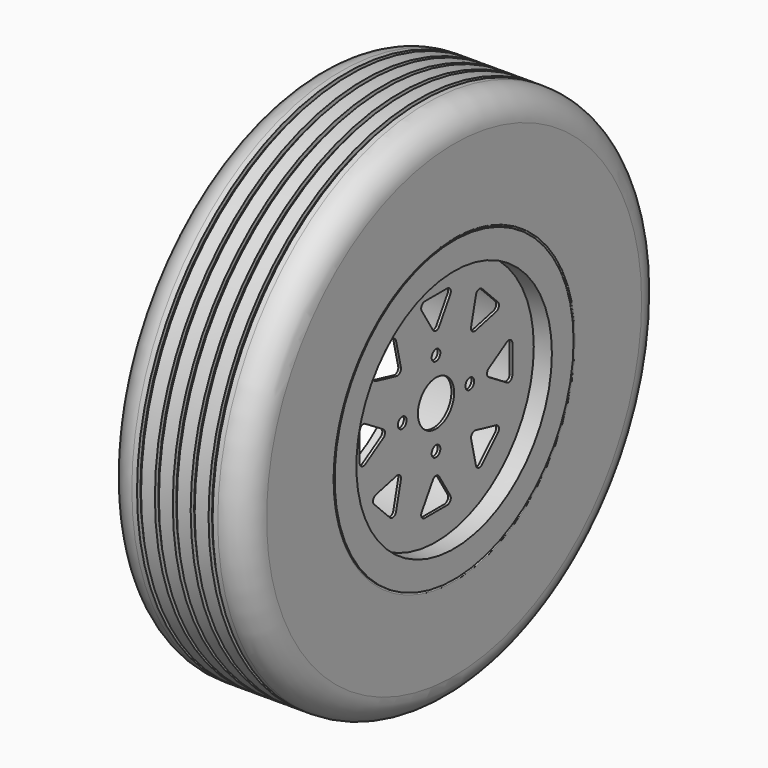
from build123d import *

# Parameters (mm, degrees)
F0_W     = 3
F0_H     = 135.1
F2_R     = 25
F2_R_2   = 6
F3_DEPTH = 135.001


with BuildPart() as f1:
    # F0 (on Top) → F1 (revolve)
    with BuildSketch(Plane.XY):
        Polygon((-133, 165.1), (-135, 165.1), (-135, 135.1), (-3, 135.1), (0, 135.1), (20, 135.1), (20, 165.1), (18, 165.1), (17, 165.1), (17, 138.1), (-132, 138.1), (-132, 165.1), align=None)
        with Locations((-1.5, 67.55)):
            Rectangle(F0_W, F0_H)
    revolve(axis=Axis((1.734227, 0, 0), (1, 0, 0)))

    # F2 (on face) → F3 (cut, through all)
    with BuildSketch(Plane.YZ):
        Circle(F2_R)
        with Locations((-46.697814, 0)):
            Circle(F2_R_2)
        with Locations((0, 46.697814)):
            Circle(F2_R_2)
        with Locations((46.697814, 0)):
            Circle(F2_R_2)
        with Locations((0, -46.697814)):
            Circle(F2_R_2)
        with BuildLine():
            ThreePointArc((-4.2516, 72.839968), (0, 70.471297), (4.2516, 72.839968))
            Line((4.2516, 72.839968), (19.726928, 97.844402))
            ThreePointArc((19.726928, 97.844402), (19.843202, 102.909181), (15.475327, 105.475731))
            Line((15.475327, 105.475731), (0, 105.475731))
            Line((0, 105.475731), (-15.475327, 105.475731))
            ThreePointArc((-15.475327, 105.475731), (-19.843202, 102.909181), (-19.726928, 97.844402))
            Line((-19.726928, 97.844402), (-4.2516, 72.839968))
        make_face()
        with BuildLine():
            ThreePointArc((63.639896, 85.525314), (58.736517, 86.799042), (55.237396, 83.135484))
            Line((55.237396, 83.135484), (48.4993, 54.511971))
            ThreePointArc((48.4993, 54.511971), (49.830732, 49.830732), (54.511971, 48.4993))
            Line((54.511971, 48.4993), (83.135484, 55.237396))
            ThreePointArc((83.135484, 55.237396), (86.799042, 58.736517), (85.525314, 63.639896))
            Line((85.525314, 63.639896), (74.582605, 74.582605))
            Line((74.582605, 74.582605), (63.639896, 85.525314))
        make_face()
        with BuildLine():
            ThreePointArc((105.475731, 15.475327), (102.909181, 19.843202), (97.844402, 19.726928))
            Line((97.844402, 19.726928), (72.839968, 4.2516))
            ThreePointArc((72.839968, 4.2516), (70.471297, 0), (72.839968, -4.2516))
            Line((72.839968, -4.2516), (97.844402, -19.726928))
            ThreePointArc((97.844402, -19.726928), (102.909181, -19.843202), (105.475731, -15.475327))
            Line((105.475731, -15.475327), (105.475731, 0))
            Line((105.475731, 0), (105.475731, 15.475327))
        make_face()
        with BuildLine():
            ThreePointArc((15.475327, -105.475731), (19.843202, -102.909181), (19.726928, -97.844402))
            Line((19.726928, -97.844402), (4.2516, -72.839968))
            ThreePointArc((4.2516, -72.839968), (0, -70.471297), (-4.2516, -72.839968))
            Line((-4.2516, -72.839968), (-19.726928, -97.844402))
            ThreePointArc((-19.726928, -97.844402), (-19.843202, -102.909181), (-15.475327, -105.475731))
            Line((-15.475327, -105.475731), (0, -105.475731))
            Line((0, -105.475731), (15.475327, -105.475731))
        make_face()
        with BuildLine():
            ThreePointArc((-63.639896, -85.525314), (-58.736517, -86.799042), (-55.237396, -83.135484))
            Line((-55.237396, -83.135484), (-48.4993, -54.511971))
            ThreePointArc((-48.4993, -54.511971), (-49.830732, -49.830732), (-54.511971, -48.4993))
            Line((-54.511971, -48.4993), (-83.135484, -55.237396))
            ThreePointArc((-83.135484, -55.237396), (-86.799042, -58.736517), (-85.525314, -63.639896))
            Line((-85.525314, -63.639896), (-74.582605, -74.582605))
            Line((-74.582605, -74.582605), (-63.639896, -85.525314))
        make_face()
        with BuildLine():
            ThreePointArc((-105.475731, -15.475327), (-102.909181, -19.843202), (-97.844402, -19.726928))
            Line((-97.844402, -19.726928), (-72.839968, -4.2516))
            ThreePointArc((-72.839968, -4.2516), (-70.471297, 0), (-72.839968, 4.2516))
            Line((-72.839968, 4.2516), (-97.844402, 19.726928))
            ThreePointArc((-97.844402, 19.726928), (-102.909181, 19.843202), (-105.475731, 15.475327))
            Line((-105.475731, 15.475327), (-105.475731, 0))
            Line((-105.475731, 0), (-105.475731, -15.475327))
        make_face()
        with BuildLine():
            ThreePointArc((-85.525314, 63.639896), (-86.799042, 58.736517), (-83.135484, 55.237396))
            Line((-83.135484, 55.237396), (-54.511971, 48.4993))
            ThreePointArc((-54.511971, 48.4993), (-49.830732, 49.830732), (-48.4993, 54.511971))
            Line((-48.4993, 54.511971), (-55.237396, 83.135484))
            ThreePointArc((-55.237396, 83.135484), (-58.736517, 86.799042), (-63.639896, 85.525314))
            Line((-63.639896, 85.525314), (-74.582605, 74.582605))
            Line((-74.582605, 74.582605), (-85.525314, 63.639896))
        make_face()
        with BuildLine():
            ThreePointArc((85.525314, -63.639896), (86.799042, -58.736517), (83.135484, -55.237396))
            Line((83.135484, -55.237396), (54.511971, -48.4993))
            ThreePointArc((54.511971, -48.4993), (49.830732, -49.830732), (48.4993, -54.511971))
            Line((48.4993, -54.511971), (55.237396, -83.135484))
            ThreePointArc((55.237396, -83.135484), (58.736517, -86.799042), (63.639896, -85.525314))
            Line((63.639896, -85.525314), (74.582605, -74.582605))
            Line((74.582605, -74.582605), (85.525314, -63.639896))
        make_face()
    extrude(amount=-F3_DEPTH, mode=Mode.SUBTRACT)


with BuildPart() as f4:
    # F0 (on Top) → F4 (revolve)
    with BuildSketch(Plane.XY):
        with BuildLine():
            ThreePointArc((-135, 167.1), (-134.414214, 165.685786), (-133, 165.1))
            Line((-133, 165.1), (-132, 165.1))
            Line((-132, 165.1), (-132, 138.1))
            Line((-132, 138.1), (17, 138.1))
            Line((17, 138.1), (17, 165.1))
            Line((17, 165.1), (18, 165.1))
            ThreePointArc((18, 165.1), (19.414214, 165.685786), (20, 167.1))
            Line((20, 167.1), (20, 259.1))
            ThreePointArc((20, 259.1), (11.213203, 280.313203), (-10, 289.1))
            Line((-10, 289.1), (-15.731056, 289.1))
            Line((-15.731056, 289.1), (-15.731056, 284.327713))
            Line((-15.731056, 284.327713), (-20.168041, 284.327713))
            Line((-20.168041, 284.327713), (-20.168041, 289.1))
            Line((-20.168041, 289.1), (-35.506282, 289.1))
            Line((-35.506282, 289.1), (-35.506282, 284.327713))
            Line((-35.506282, 284.327713), (-39.943266, 284.327713))
            Line((-39.943266, 284.327713), (-39.943266, 289.1))
            Line((-39.943266, 289.1), (-55.281508, 289.1))
            Line((-55.281508, 289.1), (-55.281508, 284.327713))
            Line((-55.281508, 284.327713), (-59.718492, 284.327713))
            Line((-59.718492, 284.327713), (-59.718492, 289.1))
            Line((-59.718492, 289.1), (-75.056734, 289.1))
            Line((-75.056734, 289.1), (-75.056734, 284.327713))
            Line((-75.056734, 284.327713), (-79.493718, 284.327713))
            Line((-79.493718, 284.327713), (-79.493718, 289.1))
            Line((-79.493718, 289.1), (-94.831959, 289.1))
            Line((-94.831959, 289.1), (-94.831959, 284.327713))
            Line((-94.831959, 284.327713), (-99.268944, 284.327713))
            Line((-99.268944, 284.327713), (-99.268944, 289.1))
            Line((-99.268944, 289.1), (-105, 289.1))
            ThreePointArc((-105, 289.1), (-126.213203, 280.313203), (-135, 259.1))
            Line((-135, 259.1), (-135, 167.1))
        make_face()
    revolve(axis=Axis((1.734227, 0, 0), (1, 0, 0)))


solid = Compound([f1.part, f4.part])
